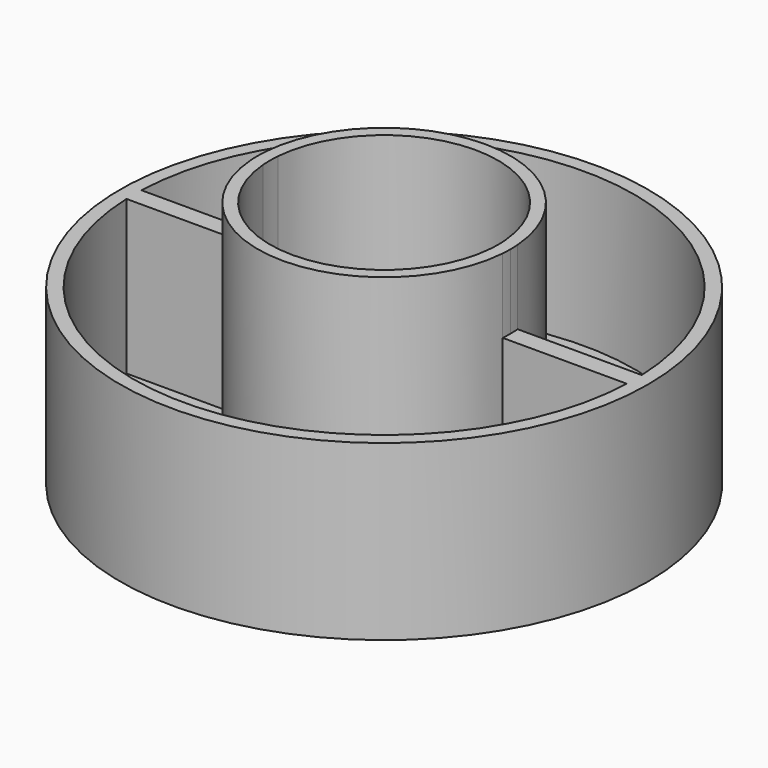
from build123d import *

# Parameters (mm, degrees)
F0_R     = 53.25
F1_DEPTH = 35
F2_DEPTH = 4
F3_DEPTH = 50


with BuildPart() as f1:
    # F0 (on Top) → F1 (new body)
    with BuildSketch(Plane.XY):
        Circle(F0_R)
        with BuildLine():
            ThreePointArc((-50.4645979232, 1.8905968509), (0, 50.5), (50.4645979232, 1.8905968509))
            ThreePointArc((50.4645979232, 1.8905968509), (50.4911487051, 0.94546414), (50.5, 0))
            ThreePointArc((50.5, 0), (50.4911487051, -0.94546414), (50.4645979232, -1.8905968509))
            ThreePointArc((50.4645979232, -1.8905968509), (0, -50.5), (-50.4645979232, -1.8905968509))
            ThreePointArc((-50.4645979232, -1.8905968509), (-50.5, 0), (-50.4645979232, 1.8905968509))
        make_face(mode=Mode.SUBTRACT)
        with BuildLine():
            ThreePointArc((-25.4298180007, -1.8905968509), (-25.5, 0), (-25.4298180007, 1.8905968509))
            Line((-25.4298180007, 1.8905968509), (-50.4645979232, 1.8905968509))
            ThreePointArc((-50.4645979232, 1.8905968509), (-50.5, 0), (-50.4645979232, -1.8905968509))
            Line((-50.4645979232, -1.8905968509), (-25.4298180007, -1.8905968509))
        make_face()
        with BuildLine():
            Line((50.4645979232, 1.8905968509), (25.4298180007, 1.8905968509))
            ThreePointArc((25.4298180007, 1.8905968509), (25.4824484598, 0.9459495184), (25.5, 0))
            ThreePointArc((25.5, 0), (25.4824484598, -0.9459495184), (25.4298180007, -1.8905968509))
            Line((25.4298180007, -1.8905968509), (50.4645979232, -1.8905968509))
            ThreePointArc((50.4645979232, -1.8905968509), (50.4911487051, -0.94546414), (50.5, 0))
            ThreePointArc((50.5, 0), (50.4911487051, 0.94546414), (50.4645979232, 1.8905968509))
        make_face()
    extrude(amount=F1_DEPTH)

    # F0 (on Top) → F2 (join)
    with BuildSketch(Plane.XY):
        with BuildLine():
            ThreePointArc((-25.4298180007, 1.8905968509), (0, 25.5), (25.4298180007, 1.8905968509))
            Line((25.4298180007, 1.8905968509), (50.4645979232, 1.8905968509))
            ThreePointArc((50.4645979232, 1.8905968509), (0, 50.5), (-50.4645979232, 1.8905968509))
            Line((-50.4645979232, 1.8905968509), (-25.4298180007, 1.8905968509))
        make_face()
        with BuildLine():
            Line((50.4645979232, -1.8905968509), (25.4298180007, -1.8905968509))
            ThreePointArc((25.4298180007, -1.8905968509), (0, -25.5), (-25.4298180007, -1.8905968509))
            Line((-25.4298180007, -1.8905968509), (-50.4645979232, -1.8905968509))
            ThreePointArc((-50.4645979232, -1.8905968509), (0, -50.5), (50.4645979232, -1.8905968509))
        make_face()
    extrude(amount=F2_DEPTH)

    # F0 (on Top) → F3 (join)
    with BuildSketch(Plane.XY):
        with BuildLine():
            ThreePointArc((-22.9221648966, 1.8905968509), (0, 23), (22.9221648966, 1.8905968509))
            Line((22.9221648966, 1.8905968509), (25.4298180007, 1.8905968509))
            ThreePointArc((25.4298180007, 1.8905968509), (0, 25.5), (-25.4298180007, 1.8905968509))
            Line((-25.4298180007, 1.8905968509), (-22.9221648966, 1.8905968509))
        make_face()
        with BuildLine():
            Line((25.4298180007, -1.8905968509), (22.9221648966, -1.8905968509))
            ThreePointArc((22.9221648966, -1.8905968509), (0, -23), (-22.9221648966, -1.8905968509))
            Line((-22.9221648966, -1.8905968509), (-25.4298180007, -1.8905968509))
            ThreePointArc((-25.4298180007, -1.8905968509), (0, -25.5), (25.4298180007, -1.8905968509))
        make_face()
        with BuildLine():
            ThreePointArc((-22.9221648966, -1.8905968509), (-23, 0), (-22.9221648966, 1.8905968509))
            Line((-22.9221648966, 1.8905968509), (-25.4298180007, 1.8905968509))
            ThreePointArc((-25.4298180007, 1.8905968509), (-25.5, 0), (-25.4298180007, -1.8905968509))
            Line((-25.4298180007, -1.8905968509), (-22.9221648966, -1.8905968509))
        make_face()
        with BuildLine():
            ThreePointArc((22.9221648966, 1.8905968509), (22.9805329858, 0.9460991962), (23, 0))
            ThreePointArc((23, 0), (22.9805329858, -0.9460991962), (22.9221648966, -1.8905968509))
            Line((22.9221648966, -1.8905968509), (25.4298180007, -1.8905968509))
            ThreePointArc((25.4298180007, -1.8905968509), (25.4824484598, -0.9459495184), (25.5, 0))
            ThreePointArc((25.5, 0), (25.4824484598, 0.9459495184), (25.4298180007, 1.8905968509))
            Line((25.4298180007, 1.8905968509), (22.9221648966, 1.8905968509))
        make_face()
    extrude(amount=F3_DEPTH)


solid = f1.part
